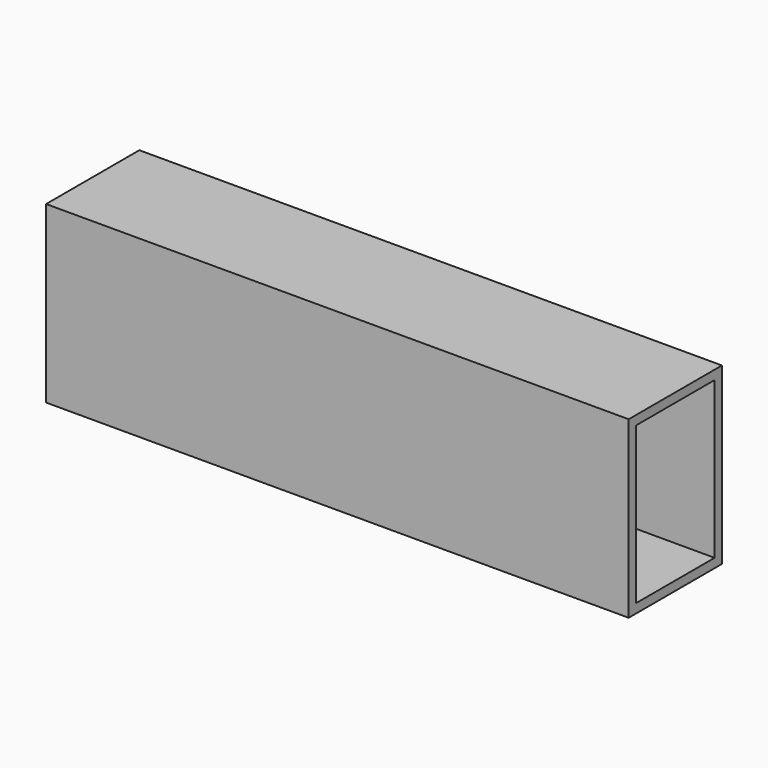
from build123d import *

# Parameters (mm, degrees)
F0_W     = 254
F0_H     = 50.8
F1_DEPTH = 76.2
F2_T     = -3.9878
F3_DEPTH = 3.9888


with BuildPart() as f1:
    # F0 (on Top) → F1 (new body)
    with BuildSketch(Plane.XY):
        with Locations((127, 25.4)):
            Rectangle(F0_W, F0_H)
    extrude(amount=F1_DEPTH)

    # F2
    f2_openings = [f1.faces().sort_by_distance(p)[0] for p in [
        (254, 25.4, 38.1),
    ]]
    offset(amount=F2_T, openings=f2_openings)

    # F3 (cut, through all): a face of the model
    f3_faces = [f1.faces().sort_by_distance(p)[0] for p in [
        (3.9878, 25.4, 38.1),
    ]]
    extrude(f3_faces, amount=-F3_DEPTH, mode=Mode.SUBTRACT)


solid = f1.part
